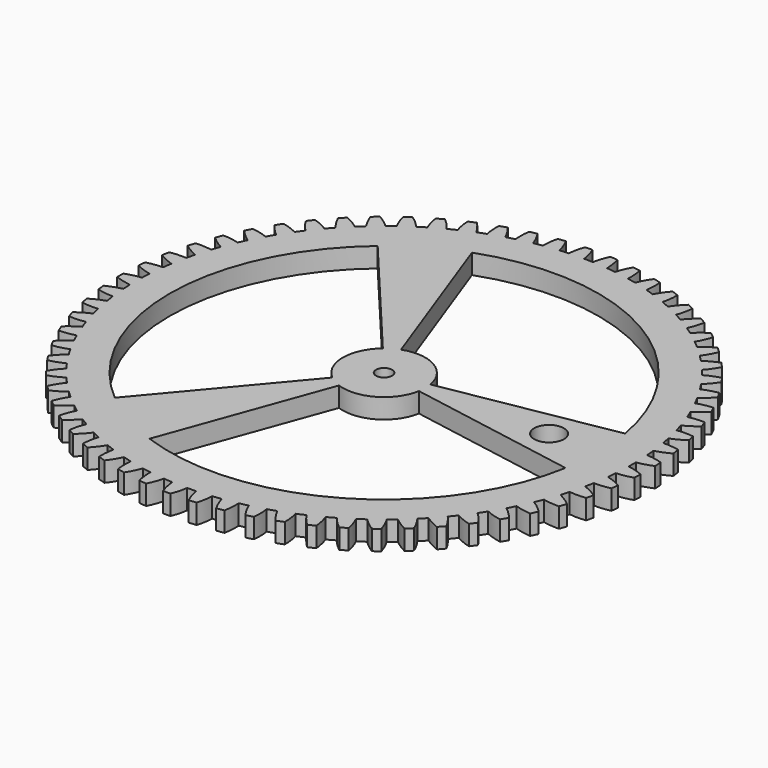
from build123d import *

# Parameters (mm, degrees)
F0_R     = 2.45
F1_DEPTH = 6
F2_R     = 4.5
F3_DEPTH = 25


with BuildPart() as f1:
    # F0 (on Top) → F1 (new body)
    with BuildSketch(Plane.XY):
        with BuildLine():
            ThreePointArc((3.153046, 75.157771), (1.817691, 75.201916), (0.481762, 75.222338))
            ThreePointArc((0.481762, 75.222338), (-0.010342, 77.650378), (-0.807818, 79.995921))
            ThreePointArc((-0.807818, 79.995921), (-1.9331, 79.976641), (-3.057999, 79.941533))
            ThreePointArc((-3.057999, 79.941533), (-3.741223, 77.560199), (-4.115445, 75.11122))
            ThreePointArc((-4.115445, 75.11122), (-5.448827, 75.026279), (-6.78049, 74.917669))
            ThreePointArc((-6.78049, 74.917669), (-7.504636, 77.286879), (-8.524766, 79.544506))
            ThreePointArc((-8.524766, 79.544506), (-9.642934, 79.41671), (-10.759194, 79.273197))
            ThreePointArc((-10.759194, 79.273197), (-11.209396, 76.83704), (-11.345511, 74.363375))
            ThreePointArc((-11.345511, 74.363375), (-12.66447, 74.150141), (-13.979434, 73.913515))
            ThreePointArc((-13.979434, 73.913515), (-14.928861, 76.201774), (-16.162122, 78.350404))
            ThreePointArc((-16.162122, 78.350404), (-17.262736, 78.115286), (-18.359933, 77.864709))
            ThreePointArc((-18.359933, 77.864709), (-18.572911, 75.396474), (-18.469647, 72.92122))
            ThreePointArc((-18.469647, 72.92122), (-19.761868, 72.581683), (-21.047856, 72.219249))
            ThreePointArc((-21.047856, 72.219249), (-22.2137, 74.405193), (-23.648576, 76.424766))
            ThreePointArc((-23.648576, 76.424766), (-24.72136, 76.084521), (-25.789251, 75.729219))
            ThreePointArc((-25.789251, 75.729219), (-25.763015, 73.251951), (-25.421336, 70.798219))
            ThreePointArc((-25.421336, 70.798219), (-26.674756, 70.33555), (-27.91976, 69.850692))
            ThreePointArc((-27.91976, 69.850692), (-29.291135, 71.913912), (-30.914229, 73.785571))
            ThreePointArc((-30.914229, 73.785571), (-31.949167, 73.343376), (-32.977781, 72.886665))
            ThreePointArc((-32.977781, 72.886665), (-32.712577, 70.423495), (-32.135674, 68.014195))
            ThreePointArc((-32.135674, 68.014195), (-33.338588, 67.432713), (-34.530984, 66.829958))
            ThreePointArc((-34.530984, 66.829958), (-36.095087, 68.751189), (-37.891245, 70.457459))
            ThreePointArc((-37.891245, 70.457459), (-37.95539, 70.422925), (-38.019504, 70.388332))
            ThreePointArc((-38.019504, 70.388332), (-38.942326, 69.88201), (-39.858406, 69.363589))
            ThreePointArc((-39.858406, 69.363589), (-39.35671, 66.937513), (-38.54997, 64.59514))
            ThreePointArc((-38.54997, 64.59514), (-39.691147, 63.900275), (-40.819803, 63.185251))
            ThreePointArc((-40.819803, 63.185251), (-42.562029, 64.946555), (-44.514481, 66.471505))
            ThreePointArc((-44.514481, 66.471505), (-45.44518, 65.838709), (-46.366885, 65.192883))
            ThreePointArc((-46.366885, 65.192883), (-45.63338, 62.826554), (-44.604334, 60.572977))
            ThreePointArc((-44.604334, 60.572977), (-45.67312, 59.771217), (-46.727497, 58.9506))
            ThreePointArc((-46.727497, 58.9506), (-48.63158, 60.535532), (-50.722096, 61.864925))
            ThreePointArc((-50.722096, 61.864925), (-51.587377, 61.145258), (-52.442448, 60.413489))
            ThreePointArc((-52.442448, 60.413489), (-51.483984, 58.129), (-50.242241, 55.985261))
            ThreePointArc((-50.242241, 55.985261), (-51.228656, 55.084091), (-52.19891, 54.165543))
            ThreePointArc((-52.19891, 54.165543), (-54.247072, 55.559306), (-56.456134, 56.680728))
            ThreePointArc((-56.456134, 56.680728), (-57.247917, 55.880909), (-58.02837, 55.070031))
            ThreePointArc((-58.02837, 55.070031), (-56.853896, 52.888711), (-55.411049, 50.874826))
            ThreePointArc((-55.411049, 50.874826), (-56.305883, 49.88266), (-57.182955, 48.874757))
            ThreePointArc((-57.182955, 48.874757), (-59.356073, 50.064337), (-61.663055, 50.967319))
            ThreePointArc((-61.663055, 50.967319), (-62.373948, 50.094816), (-63.072497, 49.212398))
            ThreePointArc((-63.072497, 49.212398), (-61.692978, 47.154615), (-60.062498, 45.289386))
            ThreePointArc((-60.062498, 45.289386), (-60.857398, 44.215488), (-61.633098, 43.127641))
            ThreePointArc((-61.633098, 43.127641), (-63.910883, 44.101931), (-66.294245, 44.778042))
            ThreePointArc((-66.294245, 44.778042), (-66.917611, 43.841001), (-67.527733, 42.895283))
            ThreePointArc((-67.527733, 42.895283), (-65.956049, 40.980249), (-64.153161, 39.281091))
            ThreePointArc((-64.153161, 39.281091), (-64.840703, 38.135488), (-65.50779, 36.977853))
            ThreePointArc((-65.50779, 36.977853), (-67.868974, 37.727757), (-70.306464, 38.170684))
            ThreePointArc((-70.306464, 38.170684), (-70.836482, 37.177854), (-71.352481, 36.177665))
            ThreePointArc((-71.352481, 36.177665), (-69.603307, 34.423261), (-67.644843, 32.90604))
            ThreePointArc((-67.644843, 32.90604), (-68.218609, 31.699427), (-68.770854, 30.482813))
            ThreePointArc((-68.770854, 30.482813), (-71.19339, 31.00133), (-73.66225, 31.206937))
            ThreePointArc((-73.66225, 31.206937), (-74.093972, 30.167587), (-74.51103, 29.122267))
            ThreePointArc((-74.51103, 29.122267), (-72.600697, 27.544873), (-70.504943, 26.223753))
            ThreePointArc((-70.504943, 26.223753), (-70.959575, 24.967397), (-71.391822, 23.703164))
            ThreePointArc((-71.391822, 23.703164), (-73.853093, 23.985451), (-76.330272, 23.951819))
            ThreePointArc((-76.330272, 23.951819), (-76.659666, 22.875654), (-76.973889, 21.794962))
            ThreePointArc((-76.973889, 21.794962), (-74.920234, 20.409305), (-72.706757, 19.296623))
            ThreePointArc((-72.706757, 19.296623), (-73.038011, 18.002253), (-73.346224, 16.702204))
            ThreePointArc((-73.346224, 16.702204), (-75.82325, 16.745626), (-78.285618, 16.473069))
            ThreePointArc((-78.285618, 16.473069), (-78.50961, 15.370137), (-78.718064, 14.264163))
            ThreePointArc((-78.718064, 14.264163), (-76.540261, 13.083182), (-74.229728, 12.189325))
            ThreePointArc((-74.229728, 12.189325), (-74.434511, 10.869027), (-74.615812, 9.5453))
            ThreePointArc((-74.615812, 9.5453), (-77.085466, 9.349453), (-79.510033, 8.840515))
            ThreePointArc((-79.510033, 8.840515), (-79.626531, 7.721114), (-79.72727, 6.600184))
            ThreePointArc((-79.72727, 6.600184), (-77.445653, 5.634904), (-75.059636, 4.968219))
            ThreePointArc((-75.059636, 4.968219), (-75.136036, 3.63432), (-75.188733, 2.299275))
            ThreePointArc((-75.188733, 2.299275), (-77.627955, 1.865985), (-79.992084, 1.125419))
            ThreePointArc((-79.992084, 1.125419), (-80, 0), (-79.992084, -1.125419))
            ThreePointArc((-79.992084, -1.125419), (-77.627955, -1.865985), (-75.188733, -2.299275))
            ThreePointArc((-75.188733, -2.299275), (-75.136036, -3.63432), (-75.059636, -4.968219))
            ThreePointArc((-75.059636, -4.968219), (-77.445653, -5.634904), (-79.72727, -6.600184))
            ThreePointArc((-79.72727, -6.600184), (-79.626531, -7.721114), (-79.510033, -8.840515))
            ThreePointArc((-79.510033, -8.840515), (-77.085466, -9.349453), (-74.615812, -9.5453))
            ThreePointArc((-74.615812, -9.5453), (-74.434511, -10.869027), (-74.229728, -12.189325))
            ThreePointArc((-74.229728, -12.189325), (-76.540261, -13.083182), (-78.718064, -14.264163))
            ThreePointArc((-78.718064, -14.264163), (-78.50961, -15.370137), (-78.285618, -16.473069))
            ThreePointArc((-78.285618, -16.473069), (-75.82325, -16.745626), (-73.346224, -16.702204))
            ThreePointArc((-73.346224, -16.702204), (-73.038011, -18.002253), (-72.706757, -19.296623))
            ThreePointArc((-72.706757, -19.296623), (-74.920234, -20.409305), (-76.973889, -21.794962))
            ThreePointArc((-76.973889, -21.794962), (-76.659666, -22.875654), (-76.330272, -23.951819))
            ThreePointArc((-76.330272, -23.951819), (-73.853093, -23.985451), (-71.391822, -23.703164))
            ThreePointArc((-71.391822, -23.703164), (-70.959575, -24.967397), (-70.504943, -26.223753))
            ThreePointArc((-70.504943, -26.223753), (-72.600697, -27.544873), (-74.51103, -29.122267))
            ThreePointArc((-74.51103, -29.122267), (-74.093972, -30.167587), (-73.66225, -31.206937))
            ThreePointArc((-73.66225, -31.206937), (-71.19339, -31.00133), (-68.770854, -30.482813))
            ThreePointArc((-68.770854, -30.482813), (-68.218609, -31.699427), (-67.644843, -32.90604))
            ThreePointArc((-67.644843, -32.90604), (-69.603307, -34.423261), (-71.352481, -36.177665))
            ThreePointArc((-71.352481, -36.177665), (-70.836482, -37.177854), (-70.306464, -38.170684))
            ThreePointArc((-70.306464, -38.170684), (-67.868974, -37.727757), (-65.50779, -36.977853))
            ThreePointArc((-65.50779, -36.977853), (-64.840703, -38.135488), (-64.153161, -39.281091))
            ThreePointArc((-64.153161, -39.281091), (-65.956049, -40.980249), (-67.527733, -42.895283))
            ThreePointArc((-67.527733, -42.895283), (-66.917611, -43.841001), (-66.294245, -44.778042))
            ThreePointArc((-66.294245, -44.778042), (-63.910883, -44.101931), (-61.633098, -43.127641))
            ThreePointArc((-61.633098, -43.127641), (-60.857398, -44.215488), (-60.062498, -45.289386))
            ThreePointArc((-60.062498, -45.289386), (-61.692978, -47.154615), (-63.072497, -49.212398))
            ThreePointArc((-63.072497, -49.212398), (-62.373948, -50.094816), (-61.663055, -50.967319))
            ThreePointArc((-61.663055, -50.967319), (-59.356073, -50.064337), (-57.182955, -48.874757))
            ThreePointArc((-57.182955, -48.874757), (-56.305883, -49.88266), (-55.411049, -50.874826))
            ThreePointArc((-55.411049, -50.874826), (-56.853896, -52.888711), (-58.02837, -55.070031))
            ThreePointArc((-58.02837, -55.070031), (-57.247917, -55.880909), (-56.456134, -56.680728))
            ThreePointArc((-56.456134, -56.680728), (-54.247072, -55.559306), (-52.19891, -54.165543))
            ThreePointArc((-52.19891, -54.165543), (-51.228656, -55.084091), (-50.242241, -55.985261))
            ThreePointArc((-50.242241, -55.985261), (-51.483984, -58.129), (-52.442448, -60.413489))
            ThreePointArc((-52.442448, -60.413489), (-51.587377, -61.145258), (-50.722096, -61.864925))
            ThreePointArc((-50.722096, -61.864925), (-48.63158, -60.535532), (-46.727497, -58.9506))
            ThreePointArc((-46.727497, -58.9506), (-45.67312, -59.771217), (-44.604334, -60.572977))
            ThreePointArc((-44.604334, -60.572977), (-45.63338, -62.826554), (-46.366885, -65.192883))
            ThreePointArc((-46.366885, -65.192883), (-45.44518, -65.838709), (-44.514481, -66.471505))
            ThreePointArc((-44.514481, -66.471505), (-42.562029, -64.946555), (-40.819803, -63.185251))
            ThreePointArc((-40.819803, -63.185251), (-39.691147, -63.900275), (-38.54997, -64.59514))
            ThreePointArc((-38.54997, -64.59514), (-39.35671, -66.937513), (-39.858406, -69.363589))
            ThreePointArc((-39.858406, -69.363589), (-38.878673, -69.917443), (-37.891245, -70.457459))
            ThreePointArc((-37.891245, -70.457459), (-36.095087, -68.751189), (-34.530984, -66.829958))
            ThreePointArc((-34.530984, -66.829958), (-33.338588, -67.432713), (-32.135674, -68.014195))
            ThreePointArc((-32.135674, -68.014195), (-32.712577, -70.423495), (-32.977781, -72.886665))
            ThreePointArc((-32.977781, -72.886665), (-31.949167, -73.343376), (-30.914229, -73.785571))
            ThreePointArc((-30.914229, -73.785571), (-29.291135, -71.913912), (-27.91976, -69.850692))
            ThreePointArc((-27.91976, -69.850692), (-26.674756, -70.33555), (-25.421336, -70.798219))
            ThreePointArc((-25.421336, -70.798219), (-25.763015, -73.251951), (-25.789251, -75.729219))
            ThreePointArc((-25.789251, -75.729219), (-24.72136, -76.084521), (-23.648576, -76.424766))
            ThreePointArc((-23.648576, -76.424766), (-22.2137, -74.405193), (-21.047856, -72.219249))
            ThreePointArc((-21.047856, -72.219249), (-19.761868, -72.581683), (-18.469647, -72.92122))
            ThreePointArc((-18.469647, -72.92122), (-18.572911, -75.396474), (-18.359933, -77.864709))
            ThreePointArc((-18.359933, -77.864709), (-17.262736, -78.115286), (-16.162122, -78.350404))
            ThreePointArc((-16.162122, -78.350404), (-14.928861, -76.201774), (-13.979434, -73.913515))
            ThreePointArc((-13.979434, -73.913515), (-12.66447, -74.150141), (-11.345511, -74.363375))
            ThreePointArc((-11.345511, -74.363375), (-11.209396, -76.83704), (-10.759194, -79.273197))
            ThreePointArc((-10.759194, -79.273197), (-9.642934, -79.41671), (-8.524766, -79.544506))
            ThreePointArc((-8.524766, -79.544506), (-7.504636, -77.286879), (-6.78049, -74.917669))
            ThreePointArc((-6.78049, -74.917669), (-5.448827, -75.026279), (-4.115445, -75.11122))
            ThreePointArc((-4.115445, -75.11122), (-3.741223, -77.560199), (-3.057999, -79.941533))
            ThreePointArc((-3.057999, -79.941533), (-1.9331, -79.976641), (-0.807818, -79.995921))
            ThreePointArc((-0.807818, -79.995921), (-0.010342, -77.650378), (0.481762, -75.222338))
            ThreePointArc((0.481762, -75.222338), (1.817691, -75.201916), (3.153046, -75.157771))
            ThreePointArc((3.153046, -75.157771), (3.761882, -77.5592), (4.671748, -79.863476))
            ThreePointArc((4.671748, -79.863476), (5.794784, -79.789852), (6.916674, -79.700437))
            ThreePointArc((6.916674, -79.700437), (7.484049, -77.288875), (7.739516, -74.824676))
            ThreePointArc((7.739516, -74.824676), (9.067237, -74.675414), (10.392098, -74.502594))
            ThreePointArc((10.392098, -74.502594), (11.229862, -76.834051), (12.357875, -79.039755))
            ThreePointArc((12.357875, -79.039755), (13.468563, -78.858086), (14.576586, -78.660811))
            ThreePointArc((14.576586, -78.660811), (14.908563, -76.205748), (14.925008, -73.728396))
            ThreePointArc((14.925008, -73.728396), (16.232125, -73.451687), (17.534121, -73.151807))
            ThreePointArc((17.534121, -73.151807), (18.592993, -75.391524), (19.928621, -77.478062))
            ThreePointArc((19.928621, -77.478062), (21.01659, -77.190044), (22.1004, -76.88675))
            ThreePointArc((22.1004, -76.88675), (22.19388, -74.411108), (21.971149, -71.943734))
            ThreePointArc((21.971149, -71.943734), (23.245457, -71.542162), (24.512433, -71.118021))
            ThreePointArc((24.512433, -71.118021), (25.782525, -73.245086), (27.313298, -75.192977))
            ThreePointArc((27.313298, -75.192977), (28.368391, -74.801299), (29.417869, -74.394818))
            ThreePointArc((29.417869, -74.394818), (29.271979, -71.921711), (28.812151, -69.487352))
            ThreePointArc((28.812151, -69.487352), (30.041754, -68.964667), (31.261879, -68.420225))
            ThreePointArc((31.261879, -68.420225), (32.731334, -70.414779), (34.442959, -72.205835))
            ThreePointArc((34.442959, -72.205835), (35.455324, -71.714155), (36.460671, -71.208282))
            ThreePointArc((36.460671, -71.208282), (36.076773, -68.760801), (35.384142, -66.382186))
            ThreePointArc((35.384142, -66.382186), (36.557558, -65.743267), (37.719441, -65.083607))
            ThreePointArc((37.719441, -65.083607), (39.374538, -66.927027), (41.251035, -68.544527))
            ThreePointArc((41.251035, -68.544527), (42.21122, -67.957435), (43.16305, -67.356893))
            ThreePointArc((43.16305, -67.356893), (42.544728, -64.957889), (41.625761, -62.657228))
            ThreePointArc((41.625761, -62.657228), (42.732035, -61.90804), (43.824827, -61.139322))
            ThreePointArc((43.824827, -61.139322), (45.650113, -62.814397), (47.673961, -64.243237))
            ThreePointArc((47.673961, -64.243237), (48.573001, -63.566214), (49.462427, -62.876612))
            ThreePointArc((49.462427, -62.876612), (48.615454, -60.548484), (47.478732, -58.347256))
            ThreePointArc((47.478732, -58.347256), (48.507534, -57.494795), (49.521033, -56.624196))
            ThreePointArc((49.521033, -56.624196), (51.499466, -58.115285), (53.651768, -59.342125))
            ThreePointArc((53.651768, -59.342125), (54.481269, -58.581493), (55.299987, -57.809268))
            ThreePointArc((55.299987, -57.809268), (54.232271, -55.573753), (52.888406, -53.492511))
            ThreePointArc((52.888406, -53.492511), (53.830131, -52.544736), (54.754874, -51.580384))
            ThreePointArc((54.754874, -51.580384), (56.867981, -52.873566), (59.128643, -53.886952))
            ThreePointArc((59.128643, -53.886952), (59.88086, -53.049813), (60.621225, -52.202175))
            ThreePointArc((60.621225, -52.202175), (59.342736, -50.080146), (57.804276, -48.138321))
            ThreePointArc((57.804276, -48.138321), (58.650131, -47.104081), (59.477483, -46.054981))
            ThreePointArc((59.477483, -46.054981), (61.705536, -47.138181), (64.05345, -47.92865))
            ThreePointArc((64.05345, -47.92865), (64.72136, -47.02282), (65.37646, -46.107684))
            ThreePointArc((65.37646, -46.107684), (63.899133, -44.118953), (62.180442, -42.334676))
            ThreePointArc((62.180442, -42.334676), (62.92253, -41.223627), (63.644767, -40.099574))
            ThreePointArc((63.644767, -40.099574), (65.966963, -40.962679), (68.380207, -41.522852))
            ThreePointArc((68.380207, -41.522852), (68.957573, -40.556788), (69.521292, -39.582698))
            ThreePointArc((69.521292, -39.582698), (67.858922, -37.745834), (65.976047, -36.135764))
            ThreePointArc((65.976047, -36.135764), (66.607438, -34.95828), (67.217817, -33.769769))
            ThreePointArc((67.217817, -33.769769), (69.612474, -34.40472), (72.068517, -34.729367))
            ThreePointArc((72.068517, -34.729367), (72.549949, -33.712089), (73.017023, -32.688139))
            ThreePointArc((73.017023, -32.688139), (71.18513, -31.020292), (69.155651, -29.599462))
            ThreePointArc((69.155651, -29.599462), (69.670451, -28.366537), (70.163273, -27.124664))
            ThreePointArc((70.163273, -27.124664), (72.608032, -27.525534), (75.083942, -27.611622))
            ThreePointArc((75.083942, -27.611622), (75.464945, -26.552628), (75.831013, -25.488379))
            ThreePointArc((75.831013, -25.488379), (73.846702, -24.005122), (71.689567, -22.786798))
            ThreePointArc((71.689567, -22.786798), (72.08297, -21.509944), (72.453632, -20.226303))
            ThreePointArc((72.453632, -20.226303), (74.925668, -20.389349), (77.398329, -20.236075))
            ThreePointArc((77.398329, -20.236075), (77.675345, -19.145253), (77.936989, -18.050642))
            ThreePointArc((77.936989, -18.050642), (75.818787, -16.765822), (73.554137, -15.76138))
            ThreePointArc((73.554137, -15.76138), (73.822469, -14.452517), (74.067512, -13.139096))
            ThreePointArc((74.067512, -13.139096), (76.543744, -13.062794), (78.990068, -12.67159))
            ThreePointArc((78.990068, -12.67159), (79.160512, -11.559124), (79.315289, -10.44437))
            ThreePointArc((79.315289, -10.44437), (77.082972, -9.369985), (74.731952, -8.588802))
            ThreePointArc((74.731952, -8.588802), (74.872708, -7.260152), (74.989844, -5.929211))
            ThreePointArc((74.989844, -5.929211), (77.447151, -5.614275), (79.844298, -4.988793))
            ThreePointArc((79.844298, -4.988793), (79.906578, -3.86507), (79.953044, -2.740583))
            ThreePointArc((79.953044, -2.740583), (77.627455, -1.886662), (75.212015, -1.336032))
            ThreePointArc((75.212015, -1.336032), (75.223881, 0), (75.212015, 1.336032))
            ThreePointArc((75.212015, 1.336032), (77.627455, 1.886662), (79.953044, 2.740583))
            ThreePointArc((79.953044, 2.740583), (79.906578, 3.86507), (79.844298, 4.988793))
            ThreePointArc((79.844298, 4.988793), (77.447151, 5.614275), (74.989844, 5.929211))
            ThreePointArc((74.989844, 5.929211), (74.872708, 7.260152), (74.731952, 8.588802))
            ThreePointArc((74.731952, 8.588802), (77.082972, 9.369985), (79.315289, 10.44437))
            ThreePointArc((79.315289, 10.44437), (79.160512, 11.559124), (78.990068, 12.67159))
            ThreePointArc((78.990068, 12.67159), (76.543744, 13.062794), (74.067512, 13.139096))
            ThreePointArc((74.067512, 13.139096), (73.822469, 14.452517), (73.554137, 15.76138))
            ThreePointArc((73.554137, 15.76138), (75.818787, 16.765822), (77.936989, 18.050642))
            ThreePointArc((77.936989, 18.050642), (77.675345, 19.145253), (77.398329, 20.236075))
            ThreePointArc((77.398329, 20.236075), (74.925668, 20.389349), (72.453632, 20.226303))
            ThreePointArc((72.453632, 20.226303), (72.08297, 21.509944), (71.689567, 22.786798))
            ThreePointArc((71.689567, 22.786798), (73.846702, 24.005122), (75.831013, 25.488379))
            ThreePointArc((75.831013, 25.488379), (75.464945, 26.552628), (75.083942, 27.611622))
            ThreePointArc((75.083942, 27.611622), (72.608032, 27.525534), (70.163273, 27.124664))
            ThreePointArc((70.163273, 27.124664), (69.670451, 28.366537), (69.155651, 29.599462))
            ThreePointArc((69.155651, 29.599462), (71.18513, 31.020292), (73.017023, 32.688139))
            ThreePointArc((73.017023, 32.688139), (72.549949, 33.712089), (72.068517, 34.729367))
            ThreePointArc((72.068517, 34.729367), (69.612474, 34.40472), (67.217817, 33.769769))
            ThreePointArc((67.217817, 33.769769), (66.607438, 34.95828), (65.976047, 36.135764))
            ThreePointArc((65.976047, 36.135764), (67.858922, 37.745834), (69.521292, 39.582698))
            ThreePointArc((69.521292, 39.582698), (68.957573, 40.556788), (68.380207, 41.522852))
            ThreePointArc((68.380207, 41.522852), (65.966963, 40.962679), (63.644767, 40.099574))
            ThreePointArc((63.644767, 40.099574), (62.92253, 41.223627), (62.180442, 42.334676))
            ThreePointArc((62.180442, 42.334676), (63.899133, 44.118953), (65.37646, 46.107684))
            ThreePointArc((65.37646, 46.107684), (64.72136, 47.02282), (64.05345, 47.92865))
            ThreePointArc((64.05345, 47.92865), (61.705536, 47.138181), (59.477483, 46.054981))
            ThreePointArc((59.477483, 46.054981), (58.650131, 47.104081), (57.804276, 48.138321))
            ThreePointArc((57.804276, 48.138321), (59.342736, 50.080146), (60.621225, 52.202175))
            ThreePointArc((60.621225, 52.202175), (59.88086, 53.049813), (59.128643, 53.886952))
            ThreePointArc((59.128643, 53.886952), (56.867981, 52.873566), (54.754874, 51.580384))
            ThreePointArc((54.754874, 51.580384), (53.830131, 52.544736), (52.888406, 53.492511))
            ThreePointArc((52.888406, 53.492511), (54.232271, 55.573753), (55.299987, 57.809268))
            ThreePointArc((55.299987, 57.809268), (54.481269, 58.581493), (53.651768, 59.342125))
            ThreePointArc((53.651768, 59.342125), (51.499466, 58.115285), (49.521033, 56.624196))
            ThreePointArc((49.521033, 56.624196), (48.507534, 57.494795), (47.478732, 58.347256))
            ThreePointArc((47.478732, 58.347256), (48.615454, 60.548484), (49.462427, 62.876612))
            ThreePointArc((49.462427, 62.876612), (48.573001, 63.566214), (47.673961, 64.243237))
            ThreePointArc((47.673961, 64.243237), (45.650113, 62.814397), (43.824827, 61.139322))
            ThreePointArc((43.824827, 61.139322), (42.732035, 61.90804), (41.625761, 62.657228))
            ThreePointArc((41.625761, 62.657228), (42.544728, 64.957889), (43.16305, 67.356893))
            ThreePointArc((43.16305, 67.356893), (42.21122, 67.957435), (41.251035, 68.544527))
            ThreePointArc((41.251035, 68.544527), (39.374538, 66.927027), (37.719441, 65.083607))
            ThreePointArc((37.719441, 65.083607), (36.557558, 65.743267), (35.384142, 66.382186))
            ThreePointArc((35.384142, 66.382186), (36.076773, 68.760801), (36.460671, 71.208282))
            ThreePointArc((36.460671, 71.208282), (35.455324, 71.714155), (34.442959, 72.205835))
            ThreePointArc((34.442959, 72.205835), (32.731334, 70.414779), (31.261879, 68.420225))
            ThreePointArc((31.261879, 68.420225), (30.041754, 68.964667), (28.812151, 69.487352))
            ThreePointArc((28.812151, 69.487352), (29.271979, 71.921711), (29.417869, 74.394818))
            ThreePointArc((29.417869, 74.394818), (28.368391, 74.801299), (27.313298, 75.192977))
            ThreePointArc((27.313298, 75.192977), (25.782525, 73.245086), (24.512433, 71.118021))
            ThreePointArc((24.512433, 71.118021), (23.245457, 71.542162), (21.971149, 71.943734))
            ThreePointArc((21.971149, 71.943734), (22.19388, 74.411108), (22.1004, 76.88675))
            ThreePointArc((22.1004, 76.88675), (21.01659, 77.190044), (19.928621, 77.478062))
            ThreePointArc((19.928621, 77.478062), (18.592993, 75.391524), (17.534121, 73.151807))
            ThreePointArc((17.534121, 73.151807), (16.232125, 73.451687), (14.925008, 73.728396))
            ThreePointArc((14.925008, 73.728396), (14.908563, 76.205748), (14.576586, 78.660811))
            ThreePointArc((14.576586, 78.660811), (13.468563, 78.858086), (12.357875, 79.039755))
            ThreePointArc((12.357875, 79.039755), (11.229862, 76.834051), (10.392098, 74.502594))
            ThreePointArc((10.392098, 74.502594), (9.067237, 74.675414), (7.739516, 74.824676))
            ThreePointArc((7.739516, 74.824676), (7.484049, 77.288875), (6.916674, 79.700437))
            ThreePointArc((6.916674, 79.700437), (5.794784, 79.789852), (4.671748, 79.863476))
            ThreePointArc((4.671748, 79.863476), (3.761882, 77.5592), (3.153046, 75.157771))
        make_face()
        Circle(F0_R, mode=Mode.SUBTRACT)
        with BuildLine():
            ThreePointArc((3.153046, 75.157771), (1.817691, 75.201916), (0.481762, 75.222338))
            ThreePointArc((0.481762, 75.222338), (-0.010342, 77.650378), (-0.807818, 79.995921))
            ThreePointArc((-0.807818, 79.995921), (-1.9331, 79.976641), (-3.057999, 79.941533))
            ThreePointArc((-3.057999, 79.941533), (-3.741223, 77.560199), (-4.115445, 75.11122))
            ThreePointArc((-4.115445, 75.11122), (-5.448827, 75.026279), (-6.78049, 74.917669))
            ThreePointArc((-6.78049, 74.917669), (-7.504636, 77.286879), (-8.524766, 79.544506))
            ThreePointArc((-8.524766, 79.544506), (-9.642934, 79.41671), (-10.759194, 79.273197))
            ThreePointArc((-10.759194, 79.273197), (-11.209396, 76.83704), (-11.345511, 74.363375))
            ThreePointArc((-11.345511, 74.363375), (-12.66447, 74.150141), (-13.979434, 73.913515))
            ThreePointArc((-13.979434, 73.913515), (-14.928861, 76.201774), (-16.162122, 78.350404))
            ThreePointArc((-16.162122, 78.350404), (-17.262736, 78.115286), (-18.359933, 77.864709))
            ThreePointArc((-18.359933, 77.864709), (-18.572911, 75.396474), (-18.469647, 72.92122))
            ThreePointArc((-18.469647, 72.92122), (-19.761868, 72.581683), (-21.047856, 72.219249))
            ThreePointArc((-21.047856, 72.219249), (-22.2137, 74.405193), (-23.648576, 76.424766))
            ThreePointArc((-23.648576, 76.424766), (-24.72136, 76.084521), (-25.789251, 75.729219))
            ThreePointArc((-25.789251, 75.729219), (-25.763015, 73.251951), (-25.421336, 70.798219))
            ThreePointArc((-25.421336, 70.798219), (-26.674756, 70.33555), (-27.91976, 69.850692))
            ThreePointArc((-27.91976, 69.850692), (-29.291135, 71.913912), (-30.914229, 73.785571))
            ThreePointArc((-30.914229, 73.785571), (-31.949167, 73.343376), (-32.977781, 72.886665))
            ThreePointArc((-32.977781, 72.886665), (-32.712577, 70.423495), (-32.135674, 68.014195))
            ThreePointArc((-32.135674, 68.014195), (-33.338588, 67.432713), (-34.530984, 66.829958))
            ThreePointArc((-34.530984, 66.829958), (-36.095087, 68.751189), (-37.891245, 70.457459))
            ThreePointArc((-37.891245, 70.457459), (-37.95539, 70.422925), (-38.019504, 70.388332))
            ThreePointArc((-38.019504, 70.388332), (-38.942326, 69.88201), (-39.858406, 69.363589))
            ThreePointArc((-39.858406, 69.363589), (-39.35671, 66.937513), (-38.54997, 64.59514))
            ThreePointArc((-38.54997, 64.59514), (-39.691147, 63.900275), (-40.819803, 63.185251))
            ThreePointArc((-40.819803, 63.185251), (-42.562029, 64.946555), (-44.514481, 66.471505))
            ThreePointArc((-44.514481, 66.471505), (-45.44518, 65.838709), (-46.366885, 65.192883))
            ThreePointArc((-46.366885, 65.192883), (-45.63338, 62.826554), (-44.604334, 60.572977))
            ThreePointArc((-44.604334, 60.572977), (-45.67312, 59.771217), (-46.727497, 58.9506))
            ThreePointArc((-46.727497, 58.9506), (-48.63158, 60.535532), (-50.722096, 61.864925))
            ThreePointArc((-50.722096, 61.864925), (-51.587377, 61.145258), (-52.442448, 60.413489))
            ThreePointArc((-52.442448, 60.413489), (-51.483984, 58.129), (-50.242241, 55.985261))
            ThreePointArc((-50.242241, 55.985261), (-51.228656, 55.084091), (-52.19891, 54.165543))
            ThreePointArc((-52.19891, 54.165543), (-54.247072, 55.559306), (-56.456134, 56.680728))
            ThreePointArc((-56.456134, 56.680728), (-57.247917, 55.880909), (-58.02837, 55.070031))
            ThreePointArc((-58.02837, 55.070031), (-56.853896, 52.888711), (-55.411049, 50.874826))
            ThreePointArc((-55.411049, 50.874826), (-56.305883, 49.88266), (-57.182955, 48.874757))
            ThreePointArc((-57.182955, 48.874757), (-59.356073, 50.064337), (-61.663055, 50.967319))
            ThreePointArc((-61.663055, 50.967319), (-62.373948, 50.094816), (-63.072497, 49.212398))
            ThreePointArc((-63.072497, 49.212398), (-61.692978, 47.154615), (-60.062498, 45.289386))
            ThreePointArc((-60.062498, 45.289386), (-60.857398, 44.215488), (-61.633098, 43.127641))
            ThreePointArc((-61.633098, 43.127641), (-63.910883, 44.101931), (-66.294245, 44.778042))
            ThreePointArc((-66.294245, 44.778042), (-66.917611, 43.841001), (-67.527733, 42.895283))
            ThreePointArc((-67.527733, 42.895283), (-65.956049, 40.980249), (-64.153161, 39.281091))
            ThreePointArc((-64.153161, 39.281091), (-64.840703, 38.135488), (-65.50779, 36.977853))
            ThreePointArc((-65.50779, 36.977853), (-67.868974, 37.727757), (-70.306464, 38.170684))
            ThreePointArc((-70.306464, 38.170684), (-70.836482, 37.177854), (-71.352481, 36.177665))
            ThreePointArc((-71.352481, 36.177665), (-69.603307, 34.423261), (-67.644843, 32.90604))
            ThreePointArc((-67.644843, 32.90604), (-68.218609, 31.699427), (-68.770854, 30.482813))
            ThreePointArc((-68.770854, 30.482813), (-71.19339, 31.00133), (-73.66225, 31.206937))
            ThreePointArc((-73.66225, 31.206937), (-74.093972, 30.167587), (-74.51103, 29.122267))
            ThreePointArc((-74.51103, 29.122267), (-72.600697, 27.544873), (-70.504943, 26.223753))
            ThreePointArc((-70.504943, 26.223753), (-70.959575, 24.967397), (-71.391822, 23.703164))
            ThreePointArc((-71.391822, 23.703164), (-73.853093, 23.985451), (-76.330272, 23.951819))
            ThreePointArc((-76.330272, 23.951819), (-76.659666, 22.875654), (-76.973889, 21.794962))
            ThreePointArc((-76.973889, 21.794962), (-74.920234, 20.409305), (-72.706757, 19.296623))
            ThreePointArc((-72.706757, 19.296623), (-73.038011, 18.002253), (-73.346224, 16.702204))
            ThreePointArc((-73.346224, 16.702204), (-75.82325, 16.745626), (-78.285618, 16.473069))
            ThreePointArc((-78.285618, 16.473069), (-78.50961, 15.370137), (-78.718064, 14.264163))
            ThreePointArc((-78.718064, 14.264163), (-76.540261, 13.083182), (-74.229728, 12.189325))
            ThreePointArc((-74.229728, 12.189325), (-74.434511, 10.869027), (-74.615812, 9.5453))
            ThreePointArc((-74.615812, 9.5453), (-77.085466, 9.349453), (-79.510033, 8.840515))
            ThreePointArc((-79.510033, 8.840515), (-79.626531, 7.721114), (-79.72727, 6.600184))
            ThreePointArc((-79.72727, 6.600184), (-77.445653, 5.634904), (-75.059636, 4.968219))
            ThreePointArc((-75.059636, 4.968219), (-75.136036, 3.63432), (-75.188733, 2.299275))
            ThreePointArc((-75.188733, 2.299275), (-77.627955, 1.865985), (-79.992084, 1.125419))
            ThreePointArc((-79.992084, 1.125419), (-80, 0), (-79.992084, -1.125419))
            ThreePointArc((-79.992084, -1.125419), (-77.627955, -1.865985), (-75.188733, -2.299275))
            ThreePointArc((-75.188733, -2.299275), (-75.136036, -3.63432), (-75.059636, -4.968219))
            ThreePointArc((-75.059636, -4.968219), (-77.445653, -5.634904), (-79.72727, -6.600184))
            ThreePointArc((-79.72727, -6.600184), (-79.626531, -7.721114), (-79.510033, -8.840515))
            ThreePointArc((-79.510033, -8.840515), (-77.085466, -9.349453), (-74.615812, -9.5453))
            ThreePointArc((-74.615812, -9.5453), (-74.434511, -10.869027), (-74.229728, -12.189325))
            ThreePointArc((-74.229728, -12.189325), (-76.540261, -13.083182), (-78.718064, -14.264163))
            ThreePointArc((-78.718064, -14.264163), (-78.50961, -15.370137), (-78.285618, -16.473069))
            ThreePointArc((-78.285618, -16.473069), (-75.82325, -16.745626), (-73.346224, -16.702204))
            ThreePointArc((-73.346224, -16.702204), (-73.038011, -18.002253), (-72.706757, -19.296623))
            ThreePointArc((-72.706757, -19.296623), (-74.920234, -20.409305), (-76.973889, -21.794962))
            ThreePointArc((-76.973889, -21.794962), (-76.659666, -22.875654), (-76.330272, -23.951819))
            ThreePointArc((-76.330272, -23.951819), (-73.853093, -23.985451), (-71.391822, -23.703164))
            ThreePointArc((-71.391822, -23.703164), (-70.959575, -24.967397), (-70.504943, -26.223753))
            ThreePointArc((-70.504943, -26.223753), (-72.600697, -27.544873), (-74.51103, -29.122267))
            ThreePointArc((-74.51103, -29.122267), (-74.093972, -30.167587), (-73.66225, -31.206937))
            ThreePointArc((-73.66225, -31.206937), (-71.19339, -31.00133), (-68.770854, -30.482813))
            ThreePointArc((-68.770854, -30.482813), (-68.218609, -31.699427), (-67.644843, -32.90604))
            ThreePointArc((-67.644843, -32.90604), (-69.603307, -34.423261), (-71.352481, -36.177665))
            ThreePointArc((-71.352481, -36.177665), (-70.836482, -37.177854), (-70.306464, -38.170684))
            ThreePointArc((-70.306464, -38.170684), (-67.868974, -37.727757), (-65.50779, -36.977853))
            ThreePointArc((-65.50779, -36.977853), (-64.840703, -38.135488), (-64.153161, -39.281091))
            ThreePointArc((-64.153161, -39.281091), (-65.956049, -40.980249), (-67.527733, -42.895283))
            ThreePointArc((-67.527733, -42.895283), (-66.917611, -43.841001), (-66.294245, -44.778042))
            ThreePointArc((-66.294245, -44.778042), (-63.910883, -44.101931), (-61.633098, -43.127641))
            ThreePointArc((-61.633098, -43.127641), (-60.857398, -44.215488), (-60.062498, -45.289386))
            ThreePointArc((-60.062498, -45.289386), (-61.692978, -47.154615), (-63.072497, -49.212398))
            ThreePointArc((-63.072497, -49.212398), (-62.373948, -50.094816), (-61.663055, -50.967319))
            ThreePointArc((-61.663055, -50.967319), (-59.356073, -50.064337), (-57.182955, -48.874757))
            ThreePointArc((-57.182955, -48.874757), (-56.305883, -49.88266), (-55.411049, -50.874826))
            ThreePointArc((-55.411049, -50.874826), (-56.853896, -52.888711), (-58.02837, -55.070031))
            ThreePointArc((-58.02837, -55.070031), (-57.247917, -55.880909), (-56.456134, -56.680728))
            ThreePointArc((-56.456134, -56.680728), (-54.247072, -55.559306), (-52.19891, -54.165543))
            ThreePointArc((-52.19891, -54.165543), (-51.228656, -55.084091), (-50.242241, -55.985261))
            ThreePointArc((-50.242241, -55.985261), (-51.483984, -58.129), (-52.442448, -60.413489))
            ThreePointArc((-52.442448, -60.413489), (-51.587377, -61.145258), (-50.722096, -61.864925))
            ThreePointArc((-50.722096, -61.864925), (-48.63158, -60.535532), (-46.727497, -58.9506))
            ThreePointArc((-46.727497, -58.9506), (-45.67312, -59.771217), (-44.604334, -60.572977))
            ThreePointArc((-44.604334, -60.572977), (-45.63338, -62.826554), (-46.366885, -65.192883))
            ThreePointArc((-46.366885, -65.192883), (-45.44518, -65.838709), (-44.514481, -66.471505))
            ThreePointArc((-44.514481, -66.471505), (-42.562029, -64.946555), (-40.819803, -63.185251))
            ThreePointArc((-40.819803, -63.185251), (-39.691147, -63.900275), (-38.54997, -64.59514))
            ThreePointArc((-38.54997, -64.59514), (-39.35671, -66.937513), (-39.858406, -69.363589))
            ThreePointArc((-39.858406, -69.363589), (-38.878673, -69.917443), (-37.891245, -70.457459))
            ThreePointArc((-37.891245, -70.457459), (-36.095087, -68.751189), (-34.530984, -66.829958))
            ThreePointArc((-34.530984, -66.829958), (-33.338588, -67.432713), (-32.135674, -68.014195))
            ThreePointArc((-32.135674, -68.014195), (-32.712577, -70.423495), (-32.977781, -72.886665))
            ThreePointArc((-32.977781, -72.886665), (-31.949167, -73.343376), (-30.914229, -73.785571))
            ThreePointArc((-30.914229, -73.785571), (-29.291135, -71.913912), (-27.91976, -69.850692))
            ThreePointArc((-27.91976, -69.850692), (-26.674756, -70.33555), (-25.421336, -70.798219))
            ThreePointArc((-25.421336, -70.798219), (-25.763015, -73.251951), (-25.789251, -75.729219))
            ThreePointArc((-25.789251, -75.729219), (-24.72136, -76.084521), (-23.648576, -76.424766))
            ThreePointArc((-23.648576, -76.424766), (-22.2137, -74.405193), (-21.047856, -72.219249))
            ThreePointArc((-21.047856, -72.219249), (-19.761868, -72.581683), (-18.469647, -72.92122))
            ThreePointArc((-18.469647, -72.92122), (-18.572911, -75.396474), (-18.359933, -77.864709))
            ThreePointArc((-18.359933, -77.864709), (-17.262736, -78.115286), (-16.162122, -78.350404))
            ThreePointArc((-16.162122, -78.350404), (-14.928861, -76.201774), (-13.979434, -73.913515))
            ThreePointArc((-13.979434, -73.913515), (-12.66447, -74.150141), (-11.345511, -74.363375))
            ThreePointArc((-11.345511, -74.363375), (-11.209396, -76.83704), (-10.759194, -79.273197))
            ThreePointArc((-10.759194, -79.273197), (-9.642934, -79.41671), (-8.524766, -79.544506))
            ThreePointArc((-8.524766, -79.544506), (-7.504636, -77.286879), (-6.78049, -74.917669))
            ThreePointArc((-6.78049, -74.917669), (-5.448827, -75.026279), (-4.115445, -75.11122))
            ThreePointArc((-4.115445, -75.11122), (-3.741223, -77.560199), (-3.057999, -79.941533))
            ThreePointArc((-3.057999, -79.941533), (-1.9331, -79.976641), (-0.807818, -79.995921))
            ThreePointArc((-0.807818, -79.995921), (-0.010342, -77.650378), (0.481762, -75.222338))
            ThreePointArc((0.481762, -75.222338), (1.817691, -75.201916), (3.153046, -75.157771))
            ThreePointArc((3.153046, -75.157771), (3.761882, -77.5592), (4.671748, -79.863476))
            ThreePointArc((4.671748, -79.863476), (5.794784, -79.789852), (6.916674, -79.700437))
            ThreePointArc((6.916674, -79.700437), (7.484049, -77.288875), (7.739516, -74.824676))
            ThreePointArc((7.739516, -74.824676), (9.067237, -74.675414), (10.392098, -74.502594))
            ThreePointArc((10.392098, -74.502594), (11.229862, -76.834051), (12.357875, -79.039755))
            ThreePointArc((12.357875, -79.039755), (13.468563, -78.858086), (14.576586, -78.660811))
            ThreePointArc((14.576586, -78.660811), (14.908563, -76.205748), (14.925008, -73.728396))
            ThreePointArc((14.925008, -73.728396), (16.232125, -73.451687), (17.534121, -73.151807))
            ThreePointArc((17.534121, -73.151807), (18.592993, -75.391524), (19.928621, -77.478062))
            ThreePointArc((19.928621, -77.478062), (21.01659, -77.190044), (22.1004, -76.88675))
            ThreePointArc((22.1004, -76.88675), (22.19388, -74.411108), (21.971149, -71.943734))
            ThreePointArc((21.971149, -71.943734), (23.245457, -71.542162), (24.512433, -71.118021))
            ThreePointArc((24.512433, -71.118021), (25.782525, -73.245086), (27.313298, -75.192977))
            ThreePointArc((27.313298, -75.192977), (28.368391, -74.801299), (29.417869, -74.394818))
            ThreePointArc((29.417869, -74.394818), (29.271979, -71.921711), (28.812151, -69.487352))
            ThreePointArc((28.812151, -69.487352), (30.041754, -68.964667), (31.261879, -68.420225))
            ThreePointArc((31.261879, -68.420225), (32.731334, -70.414779), (34.442959, -72.205835))
            ThreePointArc((34.442959, -72.205835), (35.455324, -71.714155), (36.460671, -71.208282))
            ThreePointArc((36.460671, -71.208282), (36.076773, -68.760801), (35.384142, -66.382186))
            ThreePointArc((35.384142, -66.382186), (36.557558, -65.743267), (37.719441, -65.083607))
            ThreePointArc((37.719441, -65.083607), (39.374538, -66.927027), (41.251035, -68.544527))
            ThreePointArc((41.251035, -68.544527), (42.21122, -67.957435), (43.16305, -67.356893))
            ThreePointArc((43.16305, -67.356893), (42.544728, -64.957889), (41.625761, -62.657228))
            ThreePointArc((41.625761, -62.657228), (42.732035, -61.90804), (43.824827, -61.139322))
            ThreePointArc((43.824827, -61.139322), (45.650113, -62.814397), (47.673961, -64.243237))
            ThreePointArc((47.673961, -64.243237), (48.573001, -63.566214), (49.462427, -62.876612))
            ThreePointArc((49.462427, -62.876612), (48.615454, -60.548484), (47.478732, -58.347256))
            ThreePointArc((47.478732, -58.347256), (48.507534, -57.494795), (49.521033, -56.624196))
            ThreePointArc((49.521033, -56.624196), (51.499466, -58.115285), (53.651768, -59.342125))
            ThreePointArc((53.651768, -59.342125), (54.481269, -58.581493), (55.299987, -57.809268))
            ThreePointArc((55.299987, -57.809268), (54.232271, -55.573753), (52.888406, -53.492511))
            ThreePointArc((52.888406, -53.492511), (53.830131, -52.544736), (54.754874, -51.580384))
            ThreePointArc((54.754874, -51.580384), (56.867981, -52.873566), (59.128643, -53.886952))
            ThreePointArc((59.128643, -53.886952), (59.88086, -53.049813), (60.621225, -52.202175))
            ThreePointArc((60.621225, -52.202175), (59.342736, -50.080146), (57.804276, -48.138321))
            ThreePointArc((57.804276, -48.138321), (58.650131, -47.104081), (59.477483, -46.054981))
            ThreePointArc((59.477483, -46.054981), (61.705536, -47.138181), (64.05345, -47.92865))
            ThreePointArc((64.05345, -47.92865), (64.72136, -47.02282), (65.37646, -46.107684))
            ThreePointArc((65.37646, -46.107684), (63.899133, -44.118953), (62.180442, -42.334676))
            ThreePointArc((62.180442, -42.334676), (62.92253, -41.223627), (63.644767, -40.099574))
            ThreePointArc((63.644767, -40.099574), (65.966963, -40.962679), (68.380207, -41.522852))
            ThreePointArc((68.380207, -41.522852), (68.957573, -40.556788), (69.521292, -39.582698))
            ThreePointArc((69.521292, -39.582698), (67.858922, -37.745834), (65.976047, -36.135764))
            ThreePointArc((65.976047, -36.135764), (66.607438, -34.95828), (67.217817, -33.769769))
            ThreePointArc((67.217817, -33.769769), (69.612474, -34.40472), (72.068517, -34.729367))
            ThreePointArc((72.068517, -34.729367), (72.549949, -33.712089), (73.017023, -32.688139))
            ThreePointArc((73.017023, -32.688139), (71.18513, -31.020292), (69.155651, -29.599462))
            ThreePointArc((69.155651, -29.599462), (69.670451, -28.366537), (70.163273, -27.124664))
            ThreePointArc((70.163273, -27.124664), (72.608032, -27.525534), (75.083942, -27.611622))
            ThreePointArc((75.083942, -27.611622), (75.464945, -26.552628), (75.831013, -25.488379))
            ThreePointArc((75.831013, -25.488379), (73.846702, -24.005122), (71.689567, -22.786798))
            ThreePointArc((71.689567, -22.786798), (72.08297, -21.509944), (72.453632, -20.226303))
            ThreePointArc((72.453632, -20.226303), (74.925668, -20.389349), (77.398329, -20.236075))
            ThreePointArc((77.398329, -20.236075), (77.675345, -19.145253), (77.936989, -18.050642))
            ThreePointArc((77.936989, -18.050642), (75.818787, -16.765822), (73.554137, -15.76138))
            ThreePointArc((73.554137, -15.76138), (73.822469, -14.452517), (74.067512, -13.139096))
            ThreePointArc((74.067512, -13.139096), (76.543744, -13.062794), (78.990068, -12.67159))
            ThreePointArc((78.990068, -12.67159), (79.160512, -11.559124), (79.315289, -10.44437))
            ThreePointArc((79.315289, -10.44437), (77.082972, -9.369985), (74.731952, -8.588802))
            ThreePointArc((74.731952, -8.588802), (74.872708, -7.260152), (74.989844, -5.929211))
            ThreePointArc((74.989844, -5.929211), (77.447151, -5.614275), (79.844298, -4.988793))
            ThreePointArc((79.844298, -4.988793), (79.906578, -3.86507), (79.953044, -2.740583))
            ThreePointArc((79.953044, -2.740583), (77.627455, -1.886662), (75.212015, -1.336032))
            ThreePointArc((75.212015, -1.336032), (75.223881, 0), (75.212015, 1.336032))
            ThreePointArc((75.212015, 1.336032), (77.627455, 1.886662), (79.953044, 2.740583))
            ThreePointArc((79.953044, 2.740583), (79.906578, 3.86507), (79.844298, 4.988793))
            ThreePointArc((79.844298, 4.988793), (77.447151, 5.614275), (74.989844, 5.929211))
            ThreePointArc((74.989844, 5.929211), (74.872708, 7.260152), (74.731952, 8.588802))
            ThreePointArc((74.731952, 8.588802), (77.082972, 9.369985), (79.315289, 10.44437))
            ThreePointArc((79.315289, 10.44437), (79.160512, 11.559124), (78.990068, 12.67159))
            ThreePointArc((78.990068, 12.67159), (76.543744, 13.062794), (74.067512, 13.139096))
            ThreePointArc((74.067512, 13.139096), (73.822469, 14.452517), (73.554137, 15.76138))
            ThreePointArc((73.554137, 15.76138), (75.818787, 16.765822), (77.936989, 18.050642))
            ThreePointArc((77.936989, 18.050642), (77.675345, 19.145253), (77.398329, 20.236075))
            ThreePointArc((77.398329, 20.236075), (74.925668, 20.389349), (72.453632, 20.226303))
            ThreePointArc((72.453632, 20.226303), (72.08297, 21.509944), (71.689567, 22.786798))
            ThreePointArc((71.689567, 22.786798), (73.846702, 24.005122), (75.831013, 25.488379))
            ThreePointArc((75.831013, 25.488379), (75.464945, 26.552628), (75.083942, 27.611622))
            ThreePointArc((75.083942, 27.611622), (72.608032, 27.525534), (70.163273, 27.124664))
            ThreePointArc((70.163273, 27.124664), (69.670451, 28.366537), (69.155651, 29.599462))
            ThreePointArc((69.155651, 29.599462), (71.18513, 31.020292), (73.017023, 32.688139))
            ThreePointArc((73.017023, 32.688139), (72.549949, 33.712089), (72.068517, 34.729367))
            ThreePointArc((72.068517, 34.729367), (69.612474, 34.40472), (67.217817, 33.769769))
            ThreePointArc((67.217817, 33.769769), (66.607438, 34.95828), (65.976047, 36.135764))
            ThreePointArc((65.976047, 36.135764), (67.858922, 37.745834), (69.521292, 39.582698))
            ThreePointArc((69.521292, 39.582698), (68.957573, 40.556788), (68.380207, 41.522852))
            ThreePointArc((68.380207, 41.522852), (65.966963, 40.962679), (63.644767, 40.099574))
            ThreePointArc((63.644767, 40.099574), (62.92253, 41.223627), (62.180442, 42.334676))
            ThreePointArc((62.180442, 42.334676), (63.899133, 44.118953), (65.37646, 46.107684))
            ThreePointArc((65.37646, 46.107684), (64.72136, 47.02282), (64.05345, 47.92865))
            ThreePointArc((64.05345, 47.92865), (61.705536, 47.138181), (59.477483, 46.054981))
            ThreePointArc((59.477483, 46.054981), (58.650131, 47.104081), (57.804276, 48.138321))
            ThreePointArc((57.804276, 48.138321), (59.342736, 50.080146), (60.621225, 52.202175))
            ThreePointArc((60.621225, 52.202175), (59.88086, 53.049813), (59.128643, 53.886952))
            ThreePointArc((59.128643, 53.886952), (56.867981, 52.873566), (54.754874, 51.580384))
            ThreePointArc((54.754874, 51.580384), (53.830131, 52.544736), (52.888406, 53.492511))
            ThreePointArc((52.888406, 53.492511), (54.232271, 55.573753), (55.299987, 57.809268))
            ThreePointArc((55.299987, 57.809268), (54.481269, 58.581493), (53.651768, 59.342125))
            ThreePointArc((53.651768, 59.342125), (51.499466, 58.115285), (49.521033, 56.624196))
            ThreePointArc((49.521033, 56.624196), (48.507534, 57.494795), (47.478732, 58.347256))
            ThreePointArc((47.478732, 58.347256), (48.615454, 60.548484), (49.462427, 62.876612))
            ThreePointArc((49.462427, 62.876612), (48.573001, 63.566214), (47.673961, 64.243237))
            ThreePointArc((47.673961, 64.243237), (45.650113, 62.814397), (43.824827, 61.139322))
            ThreePointArc((43.824827, 61.139322), (42.732035, 61.90804), (41.625761, 62.657228))
            ThreePointArc((41.625761, 62.657228), (42.544728, 64.957889), (43.16305, 67.356893))
            ThreePointArc((43.16305, 67.356893), (42.21122, 67.957435), (41.251035, 68.544527))
            ThreePointArc((41.251035, 68.544527), (39.374538, 66.927027), (37.719441, 65.083607))
            ThreePointArc((37.719441, 65.083607), (36.557558, 65.743267), (35.384142, 66.382186))
            ThreePointArc((35.384142, 66.382186), (36.076773, 68.760801), (36.460671, 71.208282))
            ThreePointArc((36.460671, 71.208282), (35.455324, 71.714155), (34.442959, 72.205835))
            ThreePointArc((34.442959, 72.205835), (32.731334, 70.414779), (31.261879, 68.420225))
            ThreePointArc((31.261879, 68.420225), (30.041754, 68.964667), (28.812151, 69.487352))
            ThreePointArc((28.812151, 69.487352), (29.271979, 71.921711), (29.417869, 74.394818))
            ThreePointArc((29.417869, 74.394818), (28.368391, 74.801299), (27.313298, 75.192977))
            ThreePointArc((27.313298, 75.192977), (25.782525, 73.245086), (24.512433, 71.118021))
            ThreePointArc((24.512433, 71.118021), (23.245457, 71.542162), (21.971149, 71.943734))
            ThreePointArc((21.971149, 71.943734), (22.19388, 74.411108), (22.1004, 76.88675))
            ThreePointArc((22.1004, 76.88675), (21.01659, 77.190044), (19.928621, 77.478062))
            ThreePointArc((19.928621, 77.478062), (18.592993, 75.391524), (17.534121, 73.151807))
            ThreePointArc((17.534121, 73.151807), (16.232125, 73.451687), (14.925008, 73.728396))
            ThreePointArc((14.925008, 73.728396), (14.908563, 76.205748), (14.576586, 78.660811))
            ThreePointArc((14.576586, 78.660811), (13.468563, 78.858086), (12.357875, 79.039755))
            ThreePointArc((12.357875, 79.039755), (11.229862, 76.834051), (10.392098, 74.502594))
            ThreePointArc((10.392098, 74.502594), (9.067237, 74.675414), (7.739516, 74.824676))
            ThreePointArc((7.739516, 74.824676), (7.484049, 77.288875), (6.916674, 79.700437))
            ThreePointArc((6.916674, 79.700437), (5.794784, 79.789852), (4.671748, 79.863476))
            ThreePointArc((4.671748, 79.863476), (3.761882, 77.5592), (3.153046, 75.157771))
        make_face()
        Circle(F0_R, mode=Mode.SUBTRACT)
    extrude(amount=F1_DEPTH)

    # F2 (on face) → F3 (cut)
    with BuildSketch(Plane.XY.offset(6)):
        with Locations((50, 0)):
            Circle(F2_R)
        with BuildLine():
            Line((64.012504, -11.287132), (12.310097, -2.170602))
            ThreePointArc((12.310097, -2.170602), (6.25, -10.825318), (-4.275252, -11.746158))
            Line((-4.275252, -11.746158), (-22.231309, -61.08002))
            ThreePointArc((-22.231309, -61.08002), (32.5, -56.291651), (64.012504, -11.287132))
        make_face()
        with BuildLine():
            ThreePointArc((-8.034845, -9.575556), (-12.5, 0), (-8.034845, 9.575556))
            Line((-8.034845, 9.575556), (-41.781195, 49.792889))
            ThreePointArc((-41.781195, 49.792889), (-65, 0), (-41.781195, -49.792889))
            Line((-41.781195, -49.792889), (-8.034845, -9.575556))
        make_face()
        with BuildLine():
            ThreePointArc((-4.275252, 11.746158), (6.25, 10.825318), (12.310097, 2.170602))
            Line((12.310097, 2.170602), (64.012504, 11.287132))
            ThreePointArc((64.012504, 11.287132), (32.5, 56.291651), (-22.231309, 61.08002))
            Line((-22.231309, 61.08002), (-4.275252, 11.746158))
        make_face()
    extrude(amount=-F3_DEPTH, mode=Mode.SUBTRACT)


solid = f1.part
